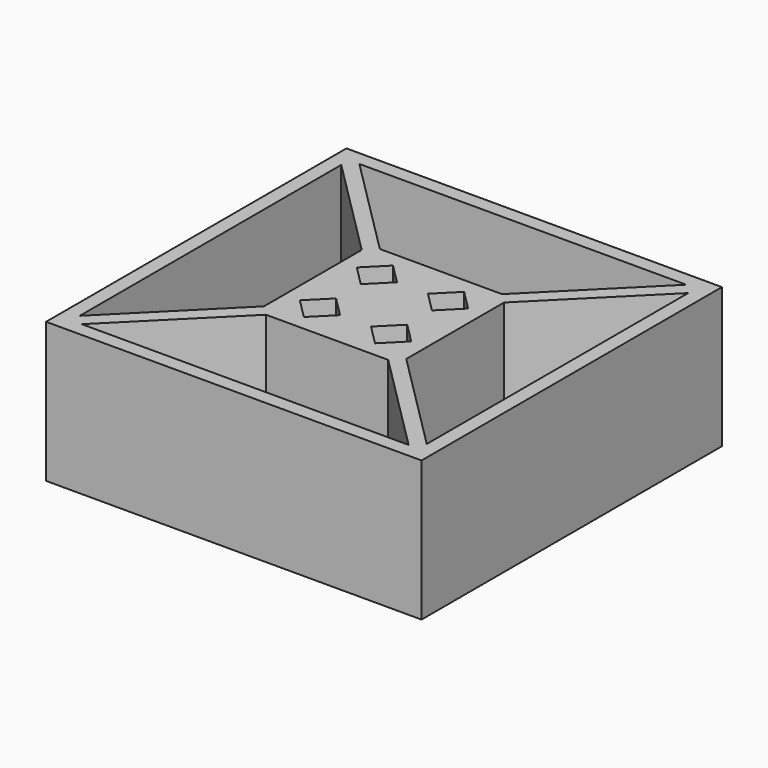
from build123d import *

# Parameters (mm, degrees)
F1_DEPTH = 25


with BuildPart() as f1:
    # F0 (on Top) → F1 (new body)
    with BuildSketch(Plane.XY):
        Polygon((33.5, 33.5), (0, 33.5), (-33.5, 33.5), (-33.5, 0), (-33.5, -33.5), (0, -33.5), (33.5, -33.5), (33.5, 0), align=None)
        Polygon((-6.35, -2.757898), (-2.757898, -6.35), (-6.35, -9.942102), (-9.942102, -6.35), align=None, mode=Mode.SUBTRACT)
        Polygon((29.163949, -30.96), (0, -30.96), (-29.163949, -30.96), (-10.903949, -12.7), (0, -12.7), (10.903949, -12.7), align=None, mode=Mode.SUBTRACT)
        Polygon((9.942102, -6.35), (6.35, -9.942102), (2.757898, -6.35), (6.35, -2.757898), align=None, mode=Mode.SUBTRACT)
        Polygon((-30.96, -29.163949), (-30.96, 0), (-30.96, 29.163949), (-12.7, 10.903949), (-12.7, 0), (-12.7, -10.903949), align=None, mode=Mode.SUBTRACT)
        Polygon((-6.35, 2.757898), (-9.942102, 6.35), (-6.35, 9.942102), (-2.757898, 6.35), align=None, mode=Mode.SUBTRACT)
        Polygon((2.757898, 6.35), (6.35, 9.942102), (9.942102, 6.35), (6.35, 2.757898), align=None, mode=Mode.SUBTRACT)
        Polygon((12.7, -10.903949), (12.7, 0), (12.7, 10.903949), (30.96, 29.163949), (30.96, 0), (30.96, -29.163949), align=None, mode=Mode.SUBTRACT)
        Polygon((10.903949, 12.7), (0, 12.7), (-10.903949, 12.7), (-29.163949, 30.96), (0, 30.96), (29.163949, 30.96), align=None, mode=Mode.SUBTRACT)
    extrude(amount=F1_DEPTH)


solid = f1.part
